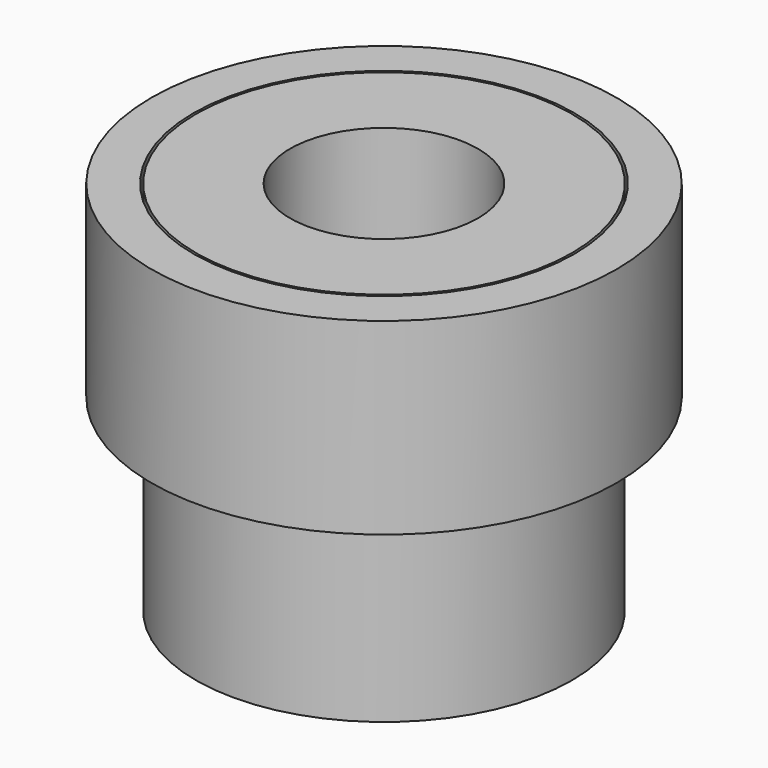
from build123d import *

# Parameters (mm, degrees)
F0_R     = 5
F0_R_2   = 2.5
F1_DEPTH = 10
F2_R     = 6.180805
F2_R_2   = 5.065053
F3_DEPTH = 5


with BuildPart() as f1:
    # F0 (on Top) → F1 (new body)
    with BuildSketch(Plane.XY):
        Circle(F0_R)
        Circle(F0_R_2, mode=Mode.SUBTRACT)
    extrude(amount=F1_DEPTH)


with BuildPart() as f3:
    # F2 (on face) → F3 (new body)
    with BuildSketch(Plane.XY.offset(10)):
        Circle(F2_R)
        Circle(F2_R_2, mode=Mode.SUBTRACT)
    extrude(amount=-F3_DEPTH)


solid = Compound([f1.part, f3.part])
